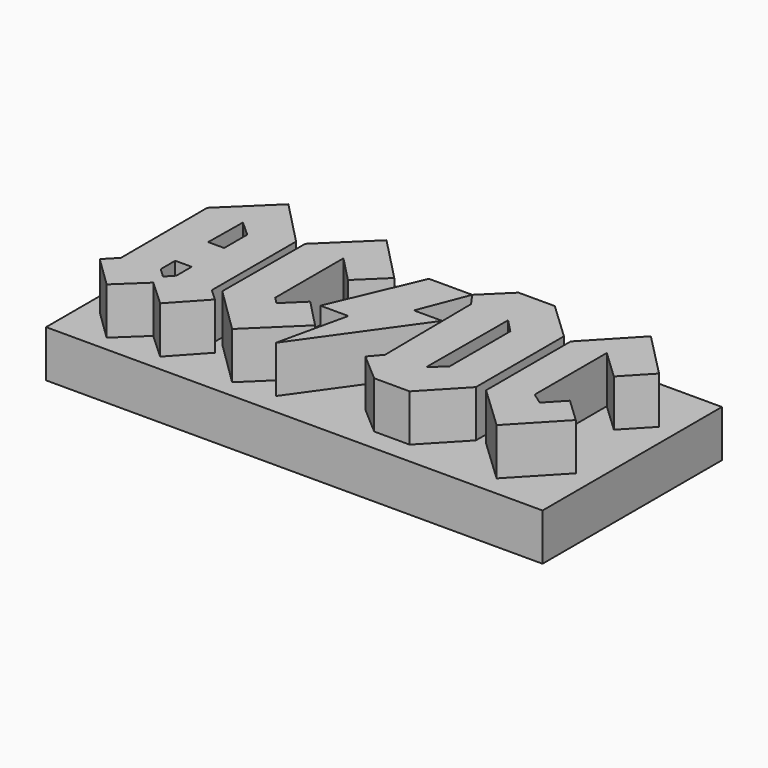
from build123d import *

# Parameters (mm, degrees)
F2_DEPTH = 25.4
F1_W     = 134.433285
F1_H     = 60.721548
F3_DEPTH = 12.7


with BuildPart() as f2:
    # F0 (on Top) → F2 (new body)
    with BuildSketch(Plane.XY):
        Polygon((-46.570007, 24.994051), (-58.954094, 12.991015), (-58.880398, -16.298256), (-62.026743, -19.531999), (-53.643543, -27.688626), (-46.4495, -20.887064), (-39.38236, -27.384893), (-31.45507, -18.763049), (-34.632402, -15.841674), (-34.632402, 12.677473), align=None)
        Polygon((-46.597473, -17.427281), (-49.088683, -15.067188), (-49.088821, -10.160887), (-44.636333, -10.149683), (-44.623265, -15.343393), align=None, mode=Mode.SUBTRACT)
        Polygon((-44.648975, 0.862992), (-48.991621, 0.862992), (-48.840575, 12.455975), (-44.648975, 8.679759), align=None, mode=Mode.SUBTRACT)
        Polygon((-20.069168, 25.081754), (-32.471523, 13.061012), (-32.607883, -14.831058), (-20.172886, -27.044636), (-7.515955, -14.777152), (-15.094181, -6.958347), (-20.259832, -11.965055), (-22.016261, -10.152866), (-22.016261, 12.941212), (-15.054393, 5.758331), (-7.983122, 12.612023), align=None)
        Polygon((16.717242, 23.784157), (9.698734, 16.896296), (12.168618, 13.405193), (12.454424, -16.082504), (9.698734, -19.277502), (17.379729, -25.902372), (26.985792, -25.902372), (36.702268, -15.633823), (36.702268, 14.178094), (26.544135, 23.784157), align=None)
        Polygon((22.790039, -14.971335), (22.900455, 12.521876), (26.433719, 8.878198), (26.433719, -11.769316), align=None, mode=Mode.SUBTRACT)
        Polygon((9.698734, 16.896296), (-2.022001, 16.896296), (-12.283466, -7.044969), (-4.693273, -7.044969), (-8.998157, -26.190383), (12.168618, 3.603816), (4.534423, 3.603816), align=None)
        Polygon((63.066716, 13.412185), (51.056158, 25.661202), (39.295384, 13.232202), (39.295384, -15.412994), (51.000082, -26.488406), (62.618037, -14.21034), (56.118293, -8.060045), (51.675872, -12.754878), (48.553905, -10.536931), (48.553905, 13.865202), (56.437075, 6.405858), align=None)
    extrude(amount=F2_DEPTH)


with BuildPart() as f3:
    # F1 (on Top) → F3 (new body)
    with BuildSketch(Plane.XY):
        with Locations((0.550576, -1.539695)):
            Rectangle(F1_W, F1_H)
    extrude(amount=F3_DEPTH)


solid = Compound([f2.part, f3.part])
